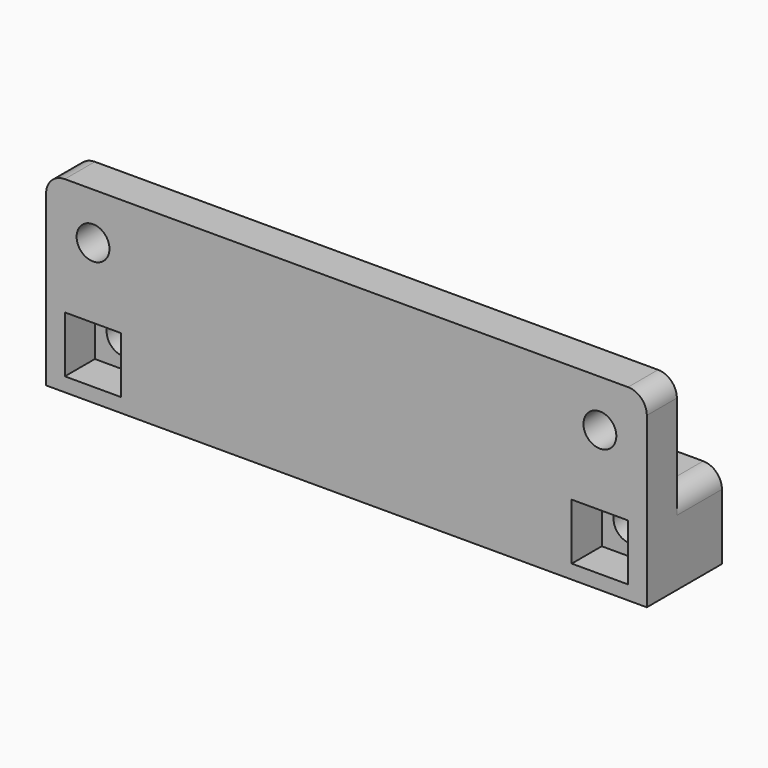
from build123d import *

# Parameters (mm, degrees)
F0_W     = 64
F0_H     = 10
F0_R     = 1.75
F1_DEPTH = 4
F2_R     = 2
F3_DEPTH = 10
F4_W     = 64
F4_H     = 9
F5_DEPTH = 6
F6_R     = 1.75
F7_DEPTH = 25
F8_W     = 6
F8_H     = 6
F9_DEPTH = 4
F10_R    = 2


with BuildPart() as f1:
    # F0 (on Front) → F1 (new body)
    with BuildSketch(Plane.XZ):
        Rectangle(F0_W, F0_H)
        with Locations((-27, 0)):
            Circle(F0_R, mode=Mode.SUBTRACT)
        with BuildLine():
            ThreePointArc((28.75, 0), (27, -1.75), (25.25, 0))
            ThreePointArc((25.25, 0), (27, 1.75), (28.75, 0))
        make_face(mode=Mode.SUBTRACT)
    extrude(amount=F1_DEPTH)

    # F2
    f2_edges = [f1.edges().sort_by_distance(p)[0] for p in [
        (-32, -2, 5),
        (32, -2, 5),
    ]]
    fillet(f2_edges, radius=F2_R)

    # F3 (add): a face of the model
    f3_faces = [f1.faces().sort_by_distance(p)[0] for p in [
        (0, -2, -5),
    ]]
    extrude(f3_faces, amount=F3_DEPTH)

    # F4 (on face) → F5 (join)
    with BuildSketch(Plane(origin=(0, 0, 0), x_dir=(-1, 0, 0), z_dir=(0, 1, 0))):
        with Locations((0, -10.5)):
            Rectangle(F4_W, F4_H)
    extrude(amount=F5_DEPTH)

    # F6 (on face) → F7 (cut)
    with BuildSketch(Plane(origin=(0, 6, 0), x_dir=(-1, 0, 0), z_dir=(0, 1, 0))):
        with BuildLine():
            ThreePointArc((-28.75, -10.5), (-27, -12.25), (-25.25, -10.5))
            ThreePointArc((-25.25, -10.5), (-27, -8.75), (-28.75, -10.5))
        make_face()
        with Locations((27, -10.5)):
            Circle(F6_R)
    extrude(amount=-F7_DEPTH, mode=Mode.SUBTRACT)

    # F8 (on face) → F9 (cut)
    with BuildSketch(Plane.XZ.offset(4)):
        with Locations((-27, -10.5)):
            Rectangle(F8_W, F8_H)
        with Locations((27, -10.5)):
            Rectangle(F8_W, F8_H)
    extrude(amount=-F9_DEPTH, mode=Mode.SUBTRACT)

    # F10
    f10_edges = [f1.edges().sort_by_distance(p)[0] for p in [
        (32, 3, -6),
        (-32, 3, -6),
    ]]
    fillet(f10_edges, radius=F10_R)


solid = f1.part
